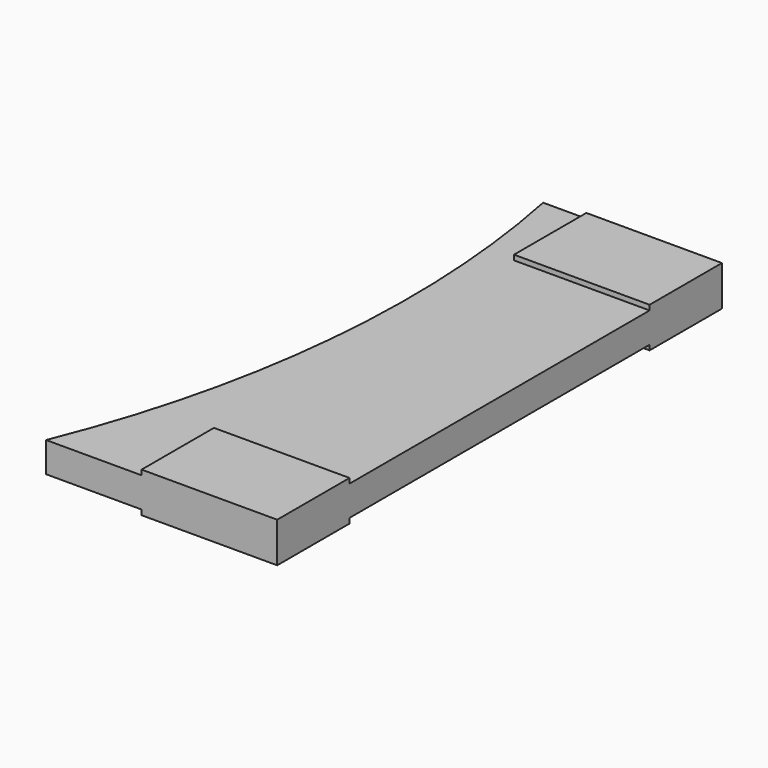
from build123d import *

# Parameters (mm, degrees)
F1_DEPTH = 1.524
F2_W     = 6.858
F2_H     = 4.572
F3_DEPTH = 0.254
F4_W     = 6.858
F4_H     = 4.572
F5_DEPTH = 0.254


with BuildPart() as f1:
    # F0 (on Top) → F1 (new body)
    with BuildSketch(Plane.XY):
        with BuildLine():
            Line((-53.369354, -22.832613), (-53.369354, 5.281494))
            Line((-53.369354, 5.281494), (-62.412295, 5.281494))
            ThreePointArc((-62.412295, 5.281494), (-61.67148, -8.969847), (-65.058701, -22.832613))
            Line((-65.058701, -22.832613), (-53.369354, -22.832613))
        make_face()
    extrude(amount=F1_DEPTH)

    # F2 (on face) → F3 (join)
    with BuildSketch(Plane.XY.offset(1.524)):
        with Locations((-56.798354, 2.995494)):
            Rectangle(F2_W, F2_H)
        with Locations((-56.798354, -20.546613)):
            Rectangle(F2_W, F2_H)
    extrude(amount=F3_DEPTH)

    # F4 (on face) → F5 (join)
    with BuildSketch(Plane(origin=(0, 0, 0), x_dir=(1, 0, 0), z_dir=(0, 0, -1))):
        with Locations((-56.798354, -2.995494)):
            Rectangle(F4_W, F4_H)
        with Locations((-56.798354, 20.546613)):
            Rectangle(F4_W, F4_H)
    extrude(amount=F5_DEPTH)


solid = f1.part
